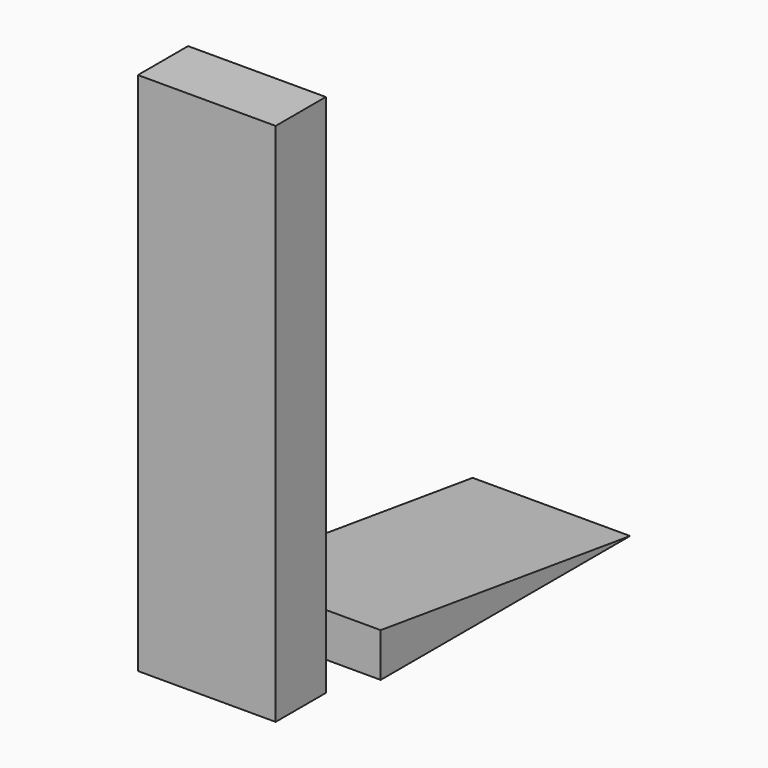
from build123d import *

# Parameters (mm, degrees)
F1_DEPTH = 609.6
F2_W     = 242.824
F2_H     = 2032
F3_DEPTH = 533.4


with BuildPart() as f1:
    # F0 (on Right) → F1 (new body)
    with BuildSketch(Plane.YZ):
        Polygon((170.363968, 169.679845), (170.363968, 0), (1377.698798, 0), align=None)
    extrude(amount=F1_DEPTH)


with BuildPart() as f3:
    # F2 (on Right) → F3 (new body)
    with BuildSketch(Plane.YZ):
        with Locations((-121.412, 1016)):
            Rectangle(F2_W, F2_H)
    extrude(amount=F3_DEPTH)


solid = Compound([f1.part, f3.part])
